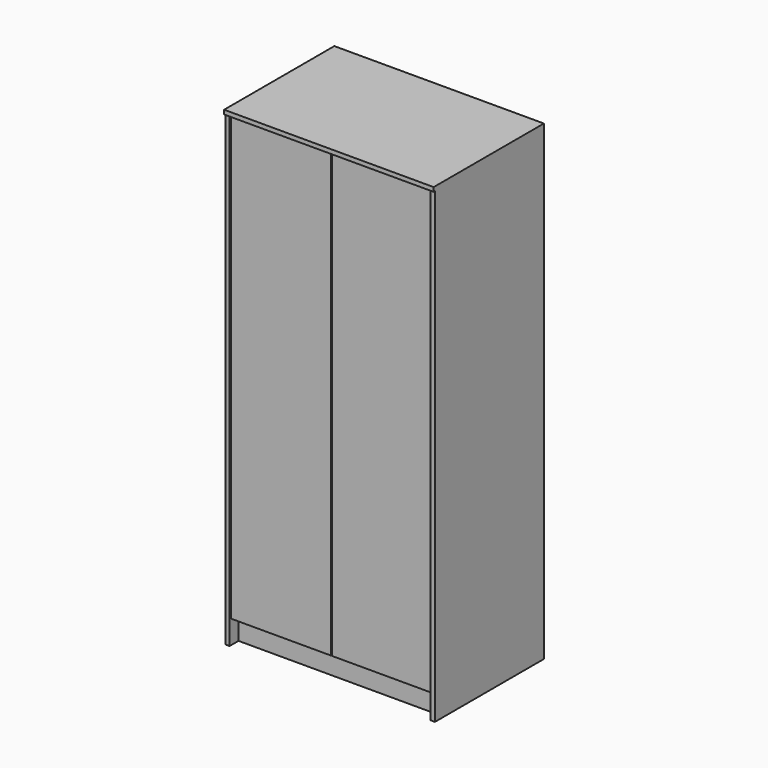
from build123d import *

# Parameters (mm, degrees)
F0_W      = 16
F0_H      = 520
F1_DEPTH  = 1784
F2_W      = 800
F2_H      = 526
F3_DEPTH  = 16
F6_DEPTH  = 768
F7_W      = 768
F7_H      = 1678
F8_DEPTH  = 5
F9_W      = 382.5
F9_H      = 1692
F10_DEPTH = 16


with BuildPart() as f1:
    # F0 (on Top) → F1 (new body)
    with BuildSketch(Plane.XY):
        with Locations((-392, 260)):
            Rectangle(F0_W, F0_H)
        with Locations((392, 260)):
            Rectangle(F0_W, F0_H)
    extrude(amount=F1_DEPTH)


with BuildPart() as f3:
    # F2 (on face) → F3 (new body)
    with BuildSketch(Plane.XY.offset(1784)):
        with Locations((0, 257)):
            Rectangle(F2_W, F2_H)
    extrude(amount=F3_DEPTH)


with BuildPart() as f1_1:
    add(f1.part)

    # F4: union F3
    add(f3.part)

    # F5 (on face) → F6 (join, through all)
    with BuildSketch(Plane.YZ.offset(-384)):
        Polygon((65.190345, 90), (520, 90), (520, 106), (22, 106), (22, 90), (42.745929, 90), (42.745929, 0), (65.190345, 0), align=None)
    extrude(amount=F6_DEPTH)


with BuildPart() as f8:
    # F7 (on face) → F8 (new body)
    with BuildSketch(Plane(origin=(0, 520, 0), x_dir=(-1, 0, 0), z_dir=(0, 1, 0))):
        with Locations((0, 945)):
            Rectangle(F7_W, F7_H)
    extrude(amount=-F8_DEPTH)


with BuildPart() as f10:
    # F9 (on face) → F10 (new body)
    with BuildSketch(Plane.XZ.offset(-22)):
        with Locations((-192.75, 936)):
            Rectangle(F9_W, F9_H)
        with Locations((192.75, 936)):
            Rectangle(F9_W, F9_H)
    extrude(amount=F10_DEPTH)


solid = Compound([f1_1.part, f8.part, f10.part])
